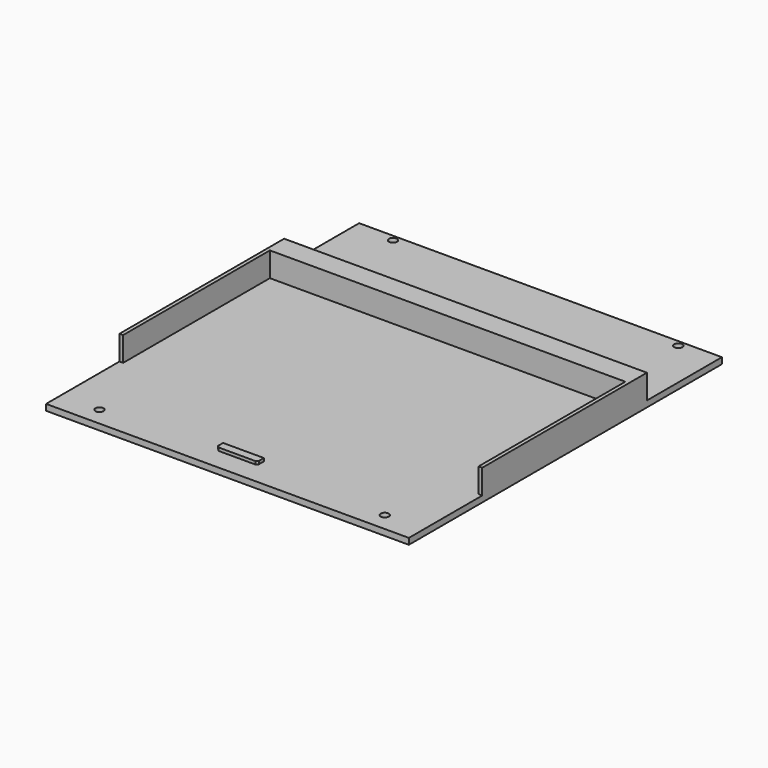
from build123d import *

# Parameters (mm, degrees)
CYLINDER028_R     = 2
CYLINDER028_DEPTH = 10
CYLINDER029_R     = 2
CYLINDER029_DEPTH = 10
CYLINDER030_R     = 2
CYLINDER030_DEPTH = 10
CYLINDER031_R     = 2
CYLINDER031_DEPTH = 10
BOX014_W          = 20
BOX014_H          = 4
BOX014_DEPTH      = 1.5
CHAMFER002_SIZE   = 1
BOX013_W          = 178
BOX013_H          = 11
BOX013_DEPTH      = 12
BOX011_W          = 1.8
BOX011_H          = 98
BOX011_DEPTH      = 12
BOX012_W          = 1.8
BOX012_H          = 98
BOX012_DEPTH      = 12
BOX005_W          = 178
BOX005_H          = 192
BOX005_DEPTH      = 3


with BuildPart() as cilindro007:
    # Cylinder028 → Cylinder028 (new body)
    with BuildSketch(Plane(origin=(20, 144, 0), x_dir=(1, 0, 0), z_dir=(0, 0, 1))):
        Circle(CYLINDER028_R)
    extrude(amount=CYLINDER028_DEPTH)


with BuildPart() as cilindro008:
    # Cylinder029 → Cylinder029 (new body)
    with BuildSketch(Plane(origin=(160, -36, 0), x_dir=(1, 0, 0), z_dir=(0, 0, 1))):
        Circle(CYLINDER029_R)
    extrude(amount=CYLINDER029_DEPTH)


with BuildPart() as cilindro009:
    # Cylinder030 → Cylinder030 (new body)
    with BuildSketch(Plane(origin=(20, -36, 0), x_dir=(1, 0, 0), z_dir=(0, 0, 1))):
        Circle(CYLINDER030_R)
    extrude(amount=CYLINDER030_DEPTH)


with BuildPart() as cilindro010:
    # Cylinder031 → Cylinder031 (new body)
    with BuildSketch(Plane(origin=(160, 144, 0), x_dir=(1, 0, 0), z_dir=(0, 0, 1))):
        Circle(CYLINDER031_R)
    extrude(amount=CYLINDER031_DEPTH)


with BuildPart() as chamfer002:
    # Box014 → Box014 (new body)
    with BuildSketch(Plane(origin=(76, -34.2, 3), x_dir=(1, 0, 0), z_dir=(0, 0, 1))):
        with Locations((10, 2)):
            Rectangle(BOX014_W, BOX014_H)
    extrude(amount=BOX014_DEPTH)

    # Chamfer002
    chamfer002_edges = [chamfer002.edges().sort_by_distance(p)[0] for p in [
        (76, -34.2, 3.75),
        (96, -34.2, 3.75),
    ]]
    chamfer(chamfer002_edges, length=CHAMFER002_SIZE)


with BuildPart() as cubo009:
    # Box013 → Box013 (new body)
    with BuildSketch(Plane(origin=(1, 90, 3), x_dir=(1, 0, 0), z_dir=(0, 0, 1))):
        with Locations((89, 5.5)):
            Rectangle(BOX013_W, BOX013_H)
    extrude(amount=BOX013_DEPTH)


with BuildPart() as fusion011:
    # Box011 → Box011 (new body)
    with BuildSketch(Plane(origin=(1, 0, 3), x_dir=(1, 0, 0), z_dir=(0, 0, 1))):
        with Locations((0.9, 49)):
            Rectangle(BOX011_W, BOX011_H)
    extrude(amount=BOX011_DEPTH)

    # Fusion011: union Cubo009
    add(cubo009.part)


with BuildPart() as fusion012:
    # Box012 → Box012 (new body)
    with BuildSketch(Plane(origin=(177.2, 0, 3), x_dir=(1, 0, 0), z_dir=(0, 0, 1))):
        with Locations((0.9, 49)):
            Rectangle(BOX012_W, BOX012_H)
    extrude(amount=BOX012_DEPTH)

    # Fusion012: union Fusion011
    add(fusion011.part)


with BuildPart() as cut049:
    # Box005 → Box005 (new body)
    with BuildSketch(Plane(origin=(1, -45, 0), x_dir=(1, 0, 0), z_dir=(0, 0, 1))):
        with Locations((89, 96)):
            Rectangle(BOX005_W, BOX005_H)
    extrude(amount=BOX005_DEPTH)

    # Fusion013: union Fusion012
    add(fusion012.part)

    # Fusion014: union Chamfer002
    add(chamfer002.part)

    # Cut046: cut Cilindro010
    add(cilindro010.part, mode=Mode.SUBTRACT)

    # Cut047: cut Cilindro009
    add(cilindro009.part, mode=Mode.SUBTRACT)

    # Cut048: cut Cilindro008
    add(cilindro008.part, mode=Mode.SUBTRACT)

    # Cut049: cut Cilindro007
    add(cilindro007.part, mode=Mode.SUBTRACT)


solid = cut049.part
